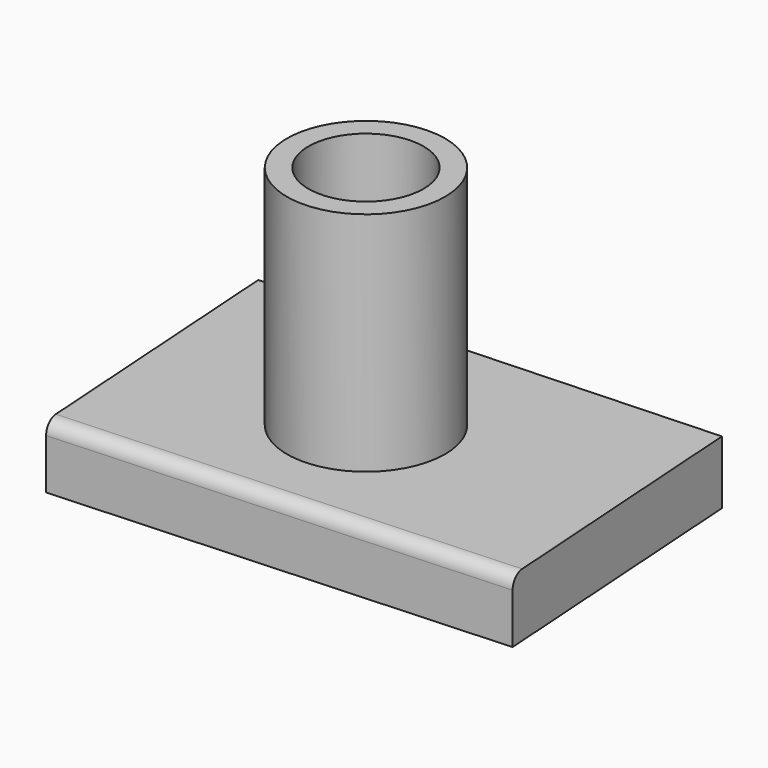
from build123d import *

# Parameters (mm, degrees)
F0_R     = 15
F1_DEPTH = 12
F0_R_2   = 10.918635
F2_DEPTH = 55
F3_R     = 2.5


with BuildPart() as f1:
    # F0 (on Top) → F1 (new body)
    with BuildSketch(Plane.XY):
        Polygon((43.459415, 41.090946), (-41.540585, 37.36122), (-37.89244, -17.517657), (47.082786, -13.090479), align=None)
        with Locations((0, 10.992759)):
            Circle(F0_R, mode=Mode.SUBTRACT)
    extrude(amount=F1_DEPTH)

    # F0 (on Top) → F2 (join)
    with BuildSketch(Plane.XY):
        with Locations((0, 10.992759)):
            Circle(F0_R)
        with Locations((0, 10.992759)):
            Circle(F0_R_2, mode=Mode.SUBTRACT)
    extrude(amount=F2_DEPTH)

    # F3
    f3_edges = [f1.edges().sort_by_distance(p)[0] for p in [
        (4.595173, -15.304068, 12),
    ]]
    fillet(f3_edges, radius=F3_R)


solid = f1.part
